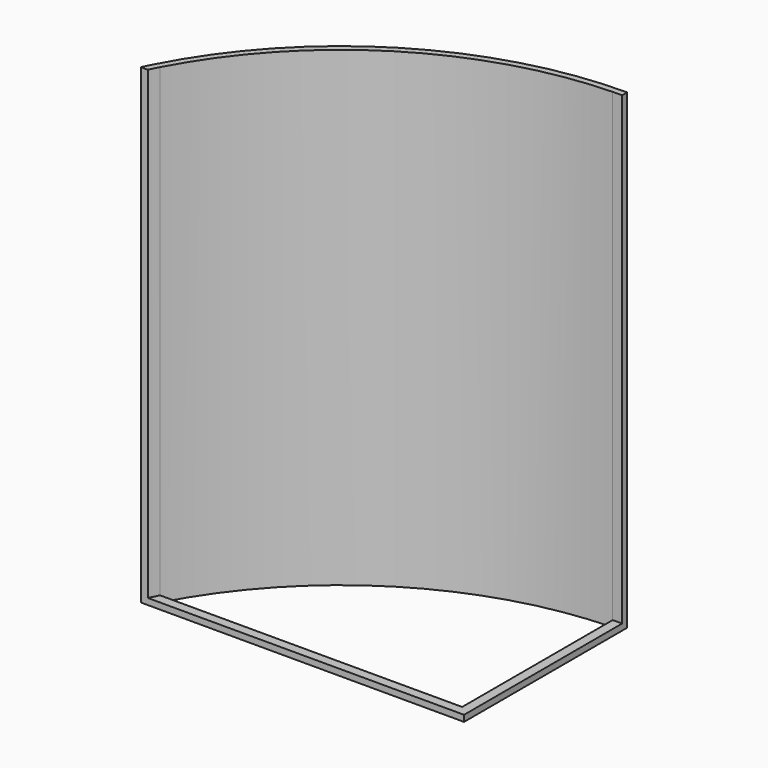
from build123d import *

# Parameters (mm, degrees)
F1_DEPTH = 150
F0_W     = 3
F0_H     = 3
F2_DEPTH = 2


with BuildPart() as f1:
    # F0 (on Top) → F1 (new body)
    with BuildSketch(Plane.XY):
        with BuildLine():
            ThreePointArc((-101.3856051901, 3), (-102.142515139, 1.505466531), (-102.8774392745, 0))
            Line((-102.8774392745, 0), (-100.6551736304, 0))
            ThreePointArc((-100.6551736304, 0), (-99.9038103766, 1.5057138076), (-99.1299695762, 3))
            Line((-99.1299695762, 3), (-101.3856051901, 3))
        make_face()
        with BuildLine():
            Line((0, 62.9117553468), (0, 64.9117585163))
            ThreePointArc((0, 64.9117585163), (-59.3677287014, 48.1617854438), (-101.3856051901, 3))
            Line((-101.3856051901, 3), (-99.1299695762, 3))
            ThreePointArc((-99.1299695762, 3), (-59.1638288673, 45.9378188594), (-3, 62.8662865554))
            ThreePointArc((-3, 62.8662865554), (-1.5001518568, 62.8990403581), (0, 62.9117553468))
        make_face()
    extrude(amount=F1_DEPTH)

    # F0 (on Top) → F2 (join)
    with BuildSketch(Plane.XY):
        with BuildLine():
            ThreePointArc((-99.1299695762, 3), (-99.9038103766, 1.5057138076), (-100.6551736304, 0))
            Line((-100.6551736304, 0), (-3, 0))
            Line((-3, 0), (-3, 3))
            Line((-3, 3), (-99.1299695762, 3))
        make_face()
        with Locations((-1.5, 1.5)):
            Rectangle(F0_W, F0_H)
        with BuildLine():
            Line((0, 3), (0, 62.9117553468))
            ThreePointArc((0, 62.9117553468), (-1.5001518568, 62.8990403581), (-3, 62.8662865554))
            Line((-3, 62.8662865554), (-3, 3))
            Line((-3, 3), (0, 3))
        make_face()
    extrude(amount=F2_DEPTH)


solid = f1.part
